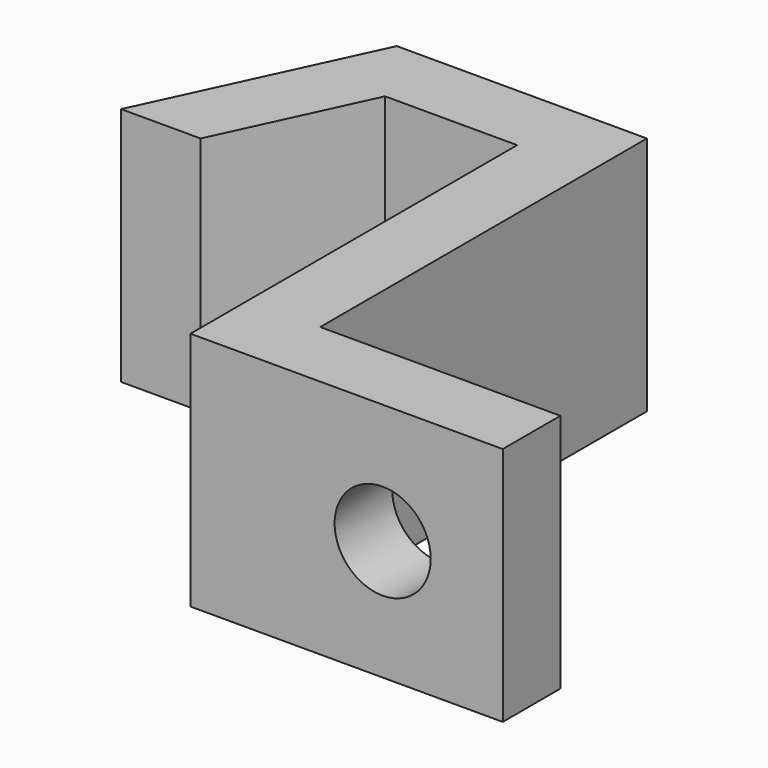
from build123d import *

# Parameters (mm, degrees)
F1_DEPTH = 10
F3_D     = 4


with BuildPart() as f1:
    # F0 (on Top) → F1 (new body)
    with BuildSketch(Plane.XY):
        Polygon((-2.086833, -10.936922), (10.913167, -10.936922), (10.913167, -7.936922), (0.913167, -7.936922), (0.913167, 9.063078), (-9.498044, 9.063078), (-13.724226, 0), (-10.414093, 0), (-7.586833, 6.063078), (-2.086833, 6.063078), align=None)
    extrude(amount=F1_DEPTH)

    # F3 (through all)
    with Locations(Plane(origin=(0, -7.936922, 0), x_dir=(-1, 0, 0), z_dir=(0, 1, 0))):
        with Locations((-5.913167, 5)):
            Hole(F3_D / 2)


solid = f1.part
